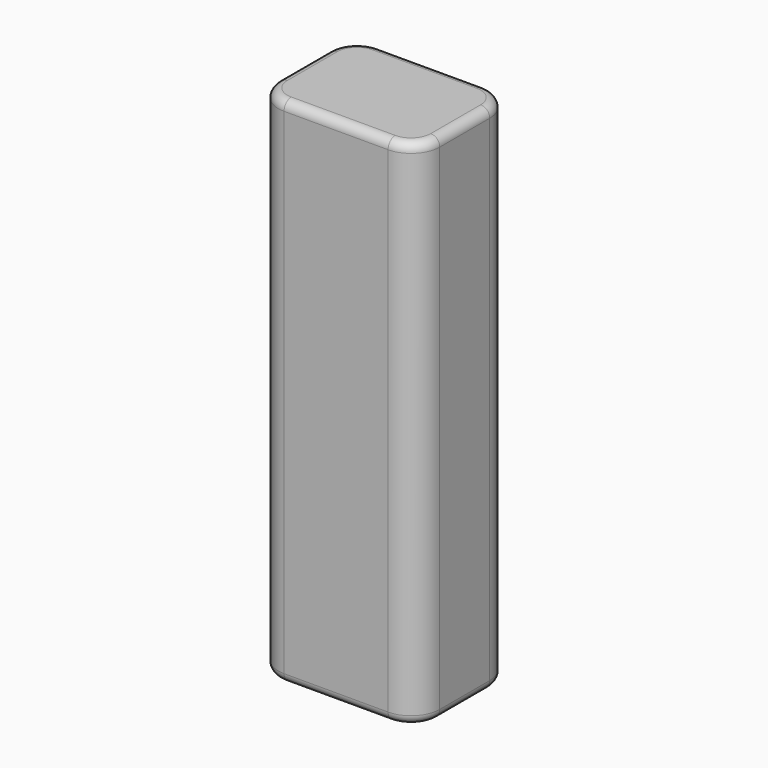
from build123d import *

# Parameters (mm, degrees)
SKETCH_W    = 45
SKETCH_H    = 33.4
PAD_DEPTH   = 143
FILLET_R    = 8
FILLET001_R = 2.5


with BuildPart() as part:
    # Sketch → Pad (new body)
    with BuildSketch(Plane.XY):
        Rectangle(SKETCH_W, SKETCH_H)
    extrude(amount=PAD_DEPTH)

    # Fillet
    fillet_edges = [part.edges().sort_by_distance(p)[0] for p in [
        (22.5, -16.7, 71.5),
        (22.5, 16.7, 71.5),
        (-22.5, -16.7, 71.5),
        (-22.5, 16.7, 71.5),
    ]]
    fillet(fillet_edges, radius=FILLET_R)

    # Fillet001
    fillet001_edges = [part.edges().sort_by_distance(p)[0] for p in [
        (0, -16.7, 143),
        (20.156854, -14.356854, 143),
        (22.5, 0, 143),
        (20.156854, 14.356854, 143),
        (0, 16.7, 143),
        (-20.156854, 14.356854, 143),
        (-22.5, 0, 143),
        (-20.156854, -14.356854, 143),
        (20.156854, -14.356854, 0),
        (0, -16.7, 0),
        (-20.156854, -14.356854, 0),
        (-22.5, 0, 0),
        (-20.156854, 14.356854, 0),
        (0, 16.7, 0),
        (20.156854, 14.356854, 0),
        (22.5, 0, 0),
    ]]
    fillet(fillet001_edges, radius=FILLET001_R)


solid = part.part
